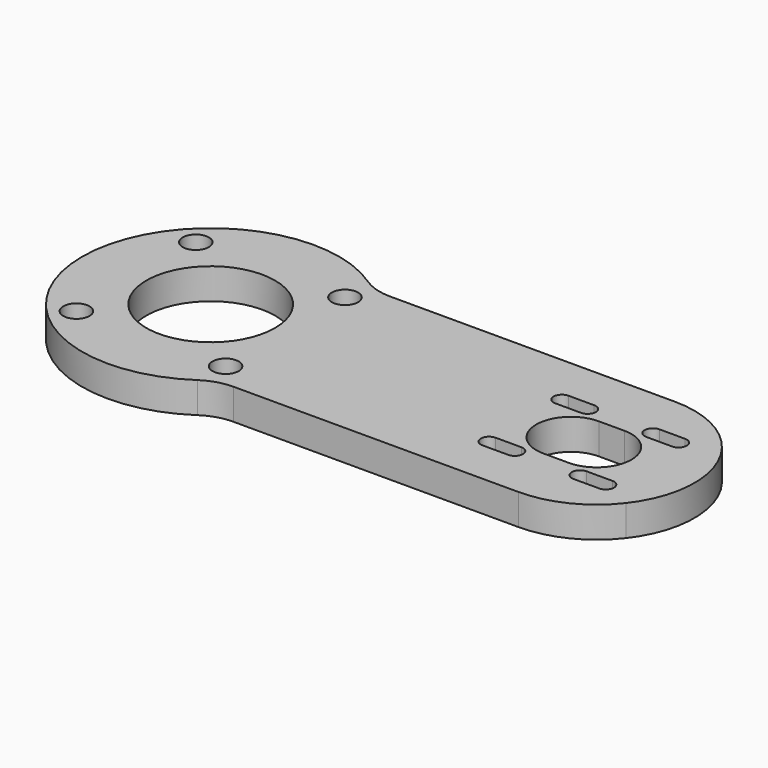
from build123d import *

# Parameters (mm, degrees)
F0_R     = 2.55
F0_R_2   = 12.5
F1_DEPTH = 6


with BuildPart() as f1:
    # F0 (on Top) → F1 (new body)
    with BuildSketch(Plane.XY):
        with BuildLine():
            ThreePointArc((19.5959179423, 19), (16.6682177234, 19.4381711253), (13.9970842445, 20.7142857143))
            ThreePointArc((13.9970842445, 20.7142857143), (-25, 0), (13.9970842445, -20.7142857143))
            ThreePointArc((13.9970842445, -20.7142857143), (16.6682177234, -19.4381711253), (19.5959179423, -19))
            Line((19.5959179423, -19), (75, -19))
            ThreePointArc((75, -19), (83.3493660836, -17.0671639707), (90, -11.6619037897))
            Line((90, -11.6619037897), (90, 11.6619037897))
            ThreePointArc((90, 11.6619037897), (83.3493660836, 17.0671639707), (75, 19))
            Line((75, 19), (19.5959179423, 19))
        make_face()
        with Locations((-14.4956890143, -14.4956890143)):
            Circle(F0_R, mode=Mode.SUBTRACT)
        with Locations((14.4956890143, -14.4956890143)):
            Circle(F0_R, mode=Mode.SUBTRACT)
        with BuildLine():
            ThreePointArc((61.1611652352, -10.4388347648), (59.5611652352, -8.8388347648), (61.1611652352, -7.2388347648))
            Line((61.1611652352, -7.2388347648), (66.1611652352, -7.2388347648))
            ThreePointArc((66.1611652352, -7.2388347648), (67.7611652352, -8.8388347648), (66.1611652352, -10.4388347648))
            Line((66.1611652352, -10.4388347648), (61.1611652352, -10.4388347648))
        make_face(mode=Mode.SUBTRACT)
        with BuildLine():
            ThreePointArc((78.8388347648, -10.4388347648), (77.2388347648, -8.8388347648), (78.8388347648, -7.2388347648))
            Line((78.8388347648, -7.2388347648), (83.8388347648, -7.2388347648))
            ThreePointArc((83.8388347648, -7.2388347648), (85.4388347648, -8.8388347648), (83.8388347648, -10.4388347648))
            Line((83.8388347648, -10.4388347648), (78.8388347648, -10.4388347648))
        make_face(mode=Mode.SUBTRACT)
        Circle(F0_R_2, mode=Mode.SUBTRACT)
        with Locations((-14.4956890143, 14.4956890143)):
            Circle(F0_R, mode=Mode.SUBTRACT)
        with Locations((14.4956890143, 14.4956890143)):
            Circle(F0_R, mode=Mode.SUBTRACT)
        with BuildLine():
            ThreePointArc((61.1611652352, 7.2388347648), (59.5611652352, 8.8388347648), (61.1611652352, 10.4388347648))
            Line((61.1611652352, 10.4388347648), (66.1611652352, 10.4388347648))
            ThreePointArc((66.1611652352, 10.4388347648), (67.7611652352, 8.8388347648), (66.1611652352, 7.2388347648))
            Line((66.1611652352, 7.2388347648), (61.1611652352, 7.2388347648))
        make_face(mode=Mode.SUBTRACT)
        with BuildLine():
            ThreePointArc((70, -6.75), (63.25, 0), (70, 6.75))
            Line((70, 6.75), (75, 6.75))
            ThreePointArc((75, 6.75), (81.75, 0), (75, -6.75))
            Line((75, -6.75), (70, -6.75))
        make_face(mode=Mode.SUBTRACT)
        with BuildLine():
            ThreePointArc((78.8388347648, 7.2388347648), (77.2388347648, 8.8388347648), (78.8388347648, 10.4388347648))
            Line((78.8388347648, 10.4388347648), (83.8388347648, 10.4388347648))
            ThreePointArc((83.8388347648, 10.4388347648), (85.4388347648, 8.8388347648), (83.8388347648, 7.2388347648))
            Line((83.8388347648, 7.2388347648), (78.8388347648, 7.2388347648))
        make_face(mode=Mode.SUBTRACT)
        with BuildLine():
            ThreePointArc((90, -11.6619037897), (94, 0), (90, 11.6619037897))
            Line((90, 11.6619037897), (90, -11.6619037897))
        make_face()
    extrude(amount=F1_DEPTH)


solid = f1.part
